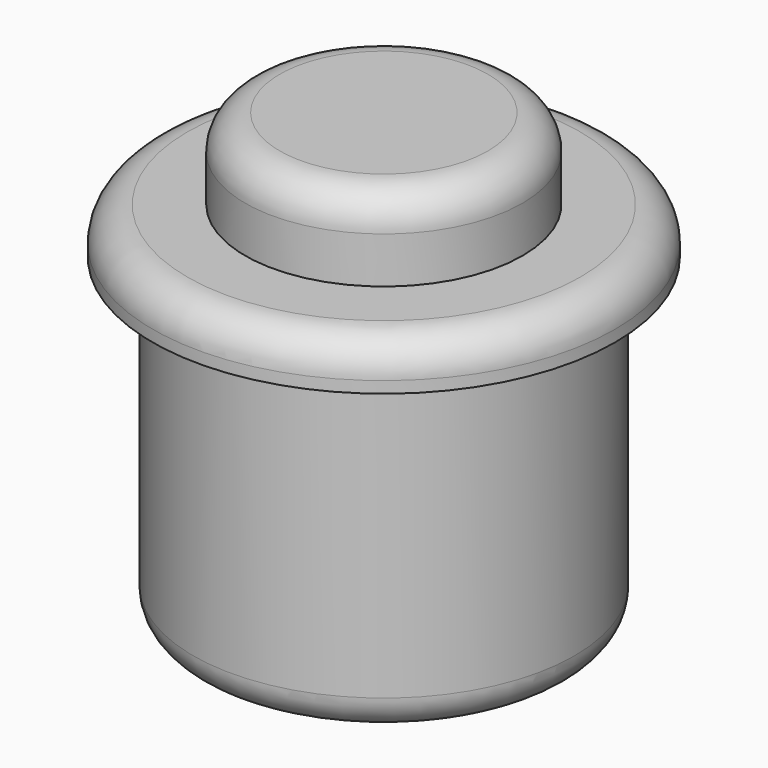
from build123d import *

# Parameters (mm, degrees)
F0_R     = 6
F1_DEPTH = 5.5
F0_R_2   = 10
F0_R_3   = 8.25
F2_DEPTH = 2
F3_DEPTH = 14
F4_R     = 1.5


with BuildPart() as f1:
    # F0 (on Top) → F1 (new body)
    with BuildSketch(Plane.XY):
        Circle(F0_R)
    extrude(amount=F1_DEPTH)

    # F0 (on Top) → F2 (join)
    with BuildSketch(Plane.XY):
        Circle(F0_R_2)
        Circle(F0_R_3, mode=Mode.SUBTRACT)
        Circle(F0_R_3)
        Circle(F0_R, mode=Mode.SUBTRACT)
    extrude(amount=F2_DEPTH)

    # F0 (on Top) → F3 (join)
    with BuildSketch(Plane.XY):
        Circle(F0_R_3)
        Circle(F0_R, mode=Mode.SUBTRACT)
        Circle(F0_R)
    extrude(amount=-F3_DEPTH)

    # F4
    f4_edges = [f1.edges().sort_by_distance(p)[0] for p in [
        (-10, 0, 2),
        (-6, 0, 5.5),
        (-8.25, 0, -14),
    ]]
    fillet(f4_edges, radius=F4_R)


solid = f1.part
